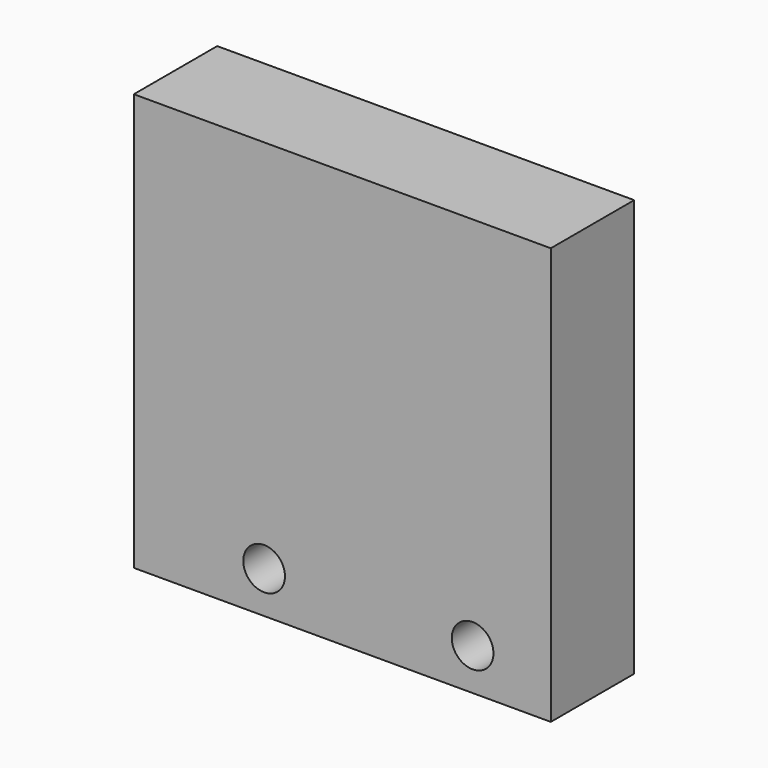
from build123d import *

# Parameters (mm, degrees)
F0_W     = 80
F0_H     = 80
F1_DEPTH = 20
F3_DEPTH = 15
F5_DEPTH = 10
F6_R     = 4
F7_DEPTH = 25


with BuildPart() as f1:
    # F0 (on Front) → F1 (new body)
    with BuildSketch(Plane.XZ):
        Rectangle(F0_W, F0_H)
    extrude(amount=F1_DEPTH)

    # F2 (on face) → F3 (cut)
    with BuildSketch(Plane(origin=(0, 0, 0), x_dir=(-1, 0, 0), z_dir=(0, 1, 0))):
        with BuildLine():
            ThreePointArc((-19, 25), (-23.242641, 23.242641), (-25, 19))
            Line((-25, 19), (-25, -9))
            ThreePointArc((-25, -9), (-23.242641, -13.242641), (-19, -15))
            Line((-19, -15), (9, -15))
            ThreePointArc((9, -15), (13.242641, -13.242641), (15, -9))
            Line((15, -9), (15, 19))
            ThreePointArc((15, 19), (13.242641, 23.242641), (9, 25))
            Line((9, 25), (-19, 25))
        make_face()
    extrude(amount=-F3_DEPTH, mode=Mode.SUBTRACT)

    # F4 (on face) → F5 (cut)
    with BuildSketch(Plane(origin=(0, 0, 0), x_dir=(-1, 0, 0), z_dir=(0, 1, 0))):
        with BuildLine():
            Line((-35, 25), (-35, -15))
            ThreePointArc((-35, -15), (-32.071068, -22.071068), (-25, -25))
            Line((-25, -25), (15, -25))
            ThreePointArc((15, -25), (22.071068, -22.071068), (25, -15))
            Line((25, -15), (25, 25))
            ThreePointArc((25, 25), (22.071068, 32.071068), (15, 35))
            Line((15, 35), (-25, 35))
            ThreePointArc((-25, 35), (-32.071068, 32.071068), (-35, 25))
        make_face()
    extrude(amount=-F5_DEPTH, mode=Mode.SUBTRACT)

    # F6 (on face) → F7 (cut)
    with BuildSketch(Plane(origin=(0, 0, 0), x_dir=(-1, 0, 0), z_dir=(0, 1, 0))):
        with Locations((-25, -32)):
            Circle(F6_R)
        with Locations((15, -32)):
            Circle(F6_R)
    extrude(amount=-F7_DEPTH, mode=Mode.SUBTRACT)


solid = f1.part
